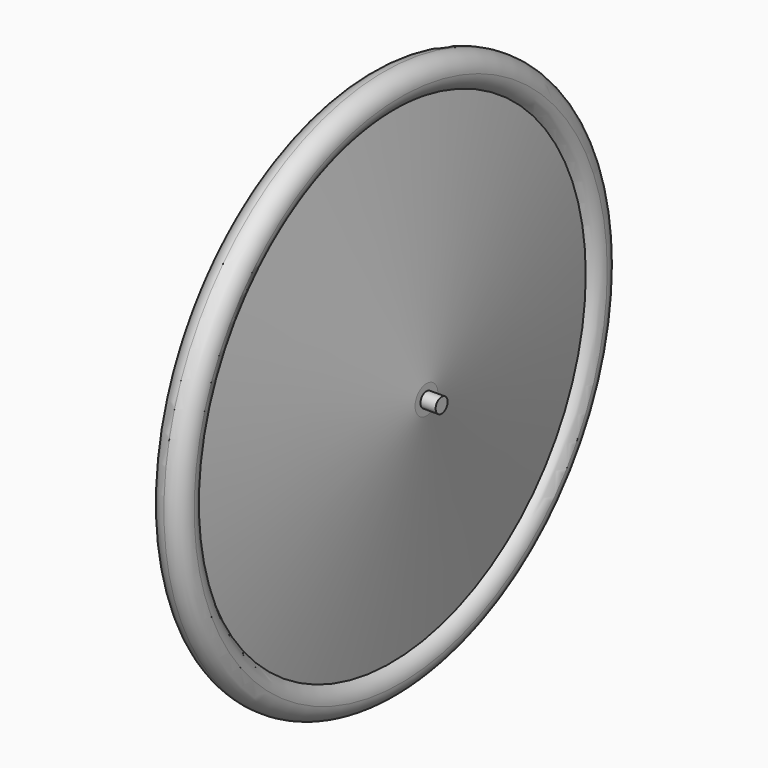
from build123d import *

# Parameters (mm, degrees)
F0_W   = 14.447578
F0_H   = 7.120048
F0_W_2 = 40.552422
F0_H_2 = 6.468568


with BuildPart() as f1:
    # F0 (on Top) → F1 (revolve)
    with BuildSketch(Plane.XY):
        with Locations((7.223789, 3.560024)):
            Rectangle(F0_W, F0_H)
        with Locations((34.723789, 3.560024)):
            Rectangle(F0_W_2, F0_H)
        with Locations((75.276211, 3.560024)):
            Rectangle(F0_W_2, F0_H)
        with Locations((34.723789, 10.354332)):
            Rectangle(F0_W_2, F0_H_2)
        with Locations((102.776211, 3.560024)):
            Rectangle(F0_W, F0_H)
        with Locations((75.276211, 10.354332)):
            Rectangle(F0_W_2, F0_H_2)
        with BuildLine():
            Line((47.968432, 231.627907), (14.447578, 13.588616))
            Line((14.447578, 13.588616), (55, 13.588616))
            Line((55, 13.588616), (55, 230))
            ThreePointArc((55, 230), (51.391225, 230.412289), (47.968432, 231.627907))
        make_face()
        with BuildLine():
            Line((55, 230), (55, 13.588616))
            Line((55, 13.588616), (95.552422, 13.588616))
            Line((95.552422, 13.588616), (62.031568, 231.627907))
            ThreePointArc((62.031568, 231.627907), (58.608775, 230.412289), (55, 230))
        make_face()
        with BuildLine():
            ThreePointArc((55, 262), (39.412289, 249.608775), (47.968432, 231.627907))
            ThreePointArc((47.968432, 231.627907), (51.391225, 230.412289), (55, 230))
            Line((55, 230), (55, 262))
        make_face()
        with BuildLine():
            Line((55, 262), (55, 230))
            ThreePointArc((55, 230), (58.608775, 230.412289), (62.031568, 231.627907))
            ThreePointArc((62.031568, 231.627907), (68.573966, 237.529613), (71, 246))
            ThreePointArc((71, 246), (66.313708, 257.313708), (55, 262))
        make_face()
    revolve(axis=Axis((55, 0, 0), (1, 0, 0)))


solid = f1.part
